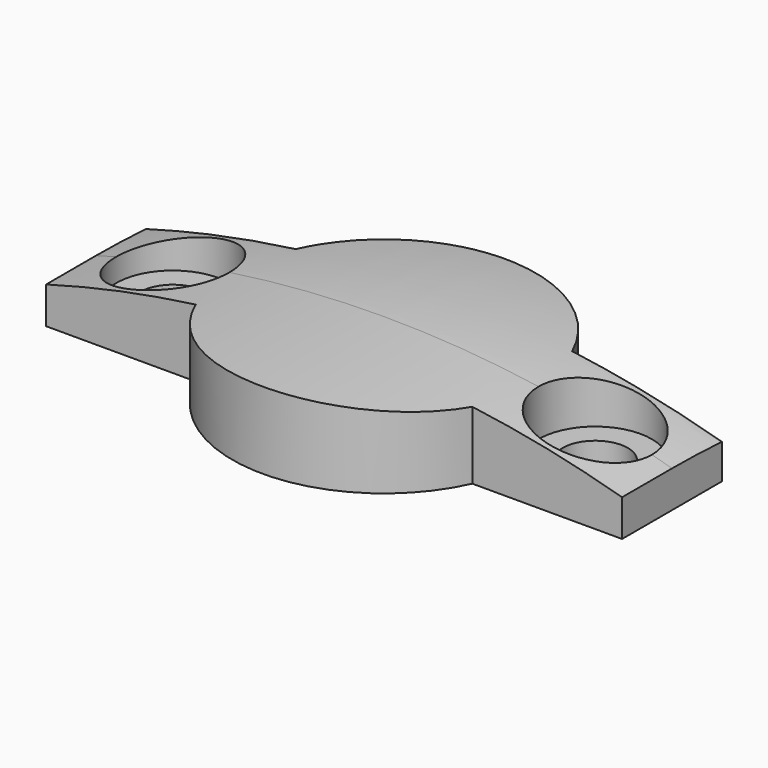
from build123d import *

# Parameters (mm, degrees)
PAD_DEPTH       = 4
SKETCH001_R     = 1.7
POCKET_DEPTH    = 4.001
SKETCH002_R     = 2.95
POCKET001_DEPTH = 3


with BuildPart() as part:
    # Sketch → Pad (new body)
    with BuildSketch(Plane.XY):
        with BuildLine():
            Line((-7.200521, 3.25), (-15, 3.25))
            Line((-15, 3.25), (-15, -3.25))
            Line((-15, -3.25), (-7.200521, -3.25))
            ThreePointArc((-7.200521, -3.25), (0, -7.9), (7.200521, -3.25))
            Line((15, -3.25), (7.200521, -3.25))
            Line((15, 3.25), (15, -3.25))
            Line((7.200521, 3.25), (15, 3.25))
            ThreePointArc((7.200521, 3.25), (0, 7.9), (-7.200521, 3.25))
        make_face()
    extrude(amount=PAD_DEPTH)

    # Sketch001 (on Face10 of Pad) → Pocket (cut, through all)
    with BuildSketch(Plane.XY.offset(4)):
        with Locations((11, 0)):
            Circle(SKETCH001_R)
        with Locations((-11, 0)):
            Circle(SKETCH001_R)
    extrude(amount=-POCKET_DEPTH, mode=Mode.SUBTRACT)

    # Sketch002 (on Face5 of Pocket) → Pocket001 (cut)
    with BuildSketch(Plane.XY.offset(4)):
        with Locations((-11, 0)):
            Circle(SKETCH002_R)
        with Locations((11, 0)):
            Circle(SKETCH002_R)
    extrude(amount=-POCKET001_DEPTH, mode=Mode.SUBTRACT)

    # Sketch003 → Groove (revolve, cut)
    with BuildSketch(Plane.YZ):
        with BuildLine():
            ThreePointArc((10, 3.083269), (5.020966, 3.770338), (0, 4))
            Line((-10, 4), (0, 4))
            Line((-10, 7), (-10, 4))
            Line((10, 7), (-10, 7))
            Line((10, 7), (10, 3.083269))
        make_face()
    revolve(axis=Axis((0, 0, -51), (0, 1, 0)), mode=Mode.SUBTRACT)


solid = part.part
